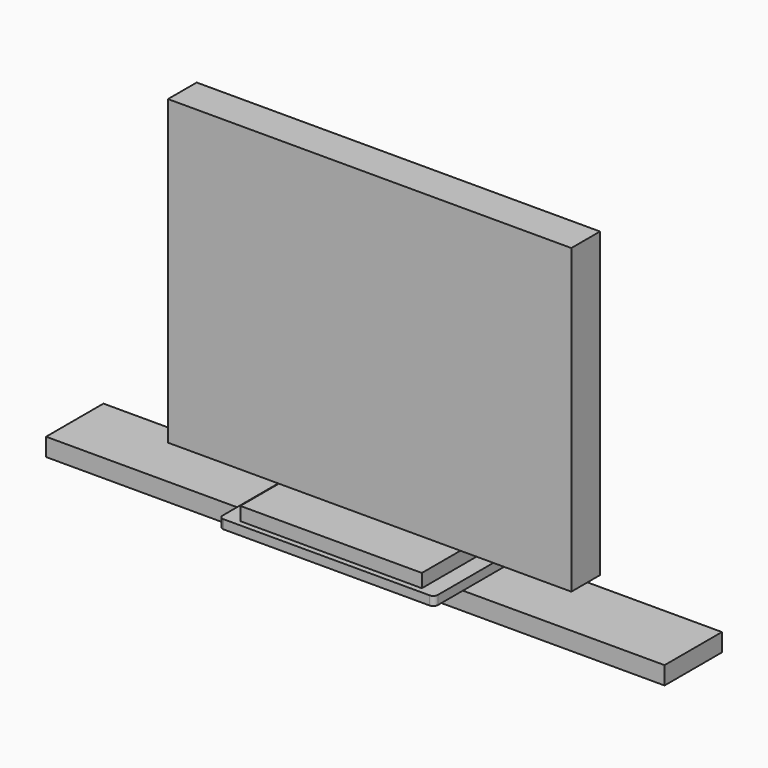
from build123d import *

# Parameters (mm, degrees)
F1_DEPTH = 12.7
F2_W     = 876.3
F2_H     = 101.6
F3_DEPTH = 25.4
F4_W     = 257.175
F4_H     = 187.325
F5_DEPTH = 19.05
F6_W     = 571.5
F6_H     = 50.8
F7_DEPTH = 428.625


with BuildPart() as f1:
    # F0 (on Top) → F1 (new body)
    with BuildSketch(Plane.XY):
        with BuildLine():
            Line((-146.05, -101.6), (146.05, -101.6))
            ThreePointArc((146.05, -101.6), (150.540128, -99.740128), (152.4, -95.25))
            Line((152.4, -95.25), (152.4, 95.25))
            ThreePointArc((152.4, 95.25), (150.540128, 99.740128), (146.05, 101.6))
            Line((146.05, 101.6), (19.05, 101.6))
            ThreePointArc((19.05, 101.6), (14.559872, 99.740128), (12.7, 95.25))
            Line((12.7, 95.25), (12.7, 57.15))
            ThreePointArc((12.7, 57.15), (0, 44.45), (-12.7, 57.15))
            Line((-12.7, 57.15), (-12.7, 95.25))
            ThreePointArc((-12.7, 95.25), (-14.559872, 99.740128), (-19.05, 101.6))
            Line((-19.05, 101.6), (-146.05, 101.6))
            ThreePointArc((-146.05, 101.6), (-150.540128, 99.740128), (-152.4, 95.25))
            Line((-152.4, 95.25), (-152.4, -95.25))
            ThreePointArc((-152.4, -95.25), (-150.540128, -99.740128), (-146.05, -101.6))
        make_face()
    extrude(amount=F1_DEPTH)

    # F2 (on face) → F3 (join)
    with BuildSketch(Plane(origin=(0, 0, 0), x_dir=(1, 0, 0), z_dir=(0, 0, -1))):
        Rectangle(F2_W, F2_H)
    extrude(amount=F3_DEPTH)

    # F4 (on face) → F5 (join)
    with BuildSketch(Plane.XY.offset(12.7)):
        Rectangle(F4_W, F4_H)
    extrude(amount=F5_DEPTH)

    # F6 (on face) → F7 (join)
    with BuildSketch(Plane.XY.offset(31.75)):
        Rectangle(F6_W, F6_H)
    extrude(amount=F7_DEPTH)


solid = f1.part
